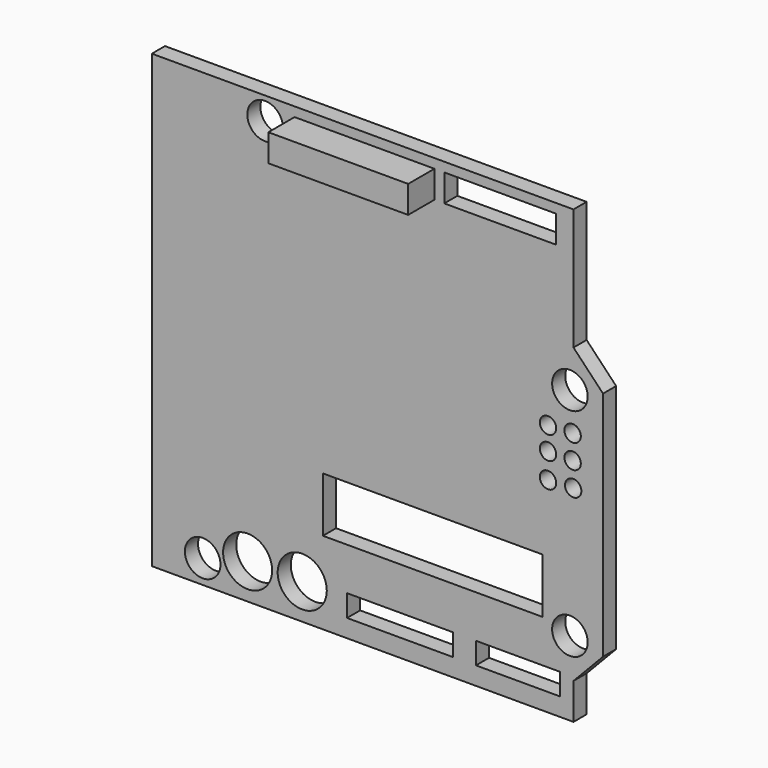
from build123d import *

# Parameters (mm, degrees)
F1_R     = 2.7559
F1_R_2   = 3.7973
F1_R_3   = 3.800833
F1_W     = 16.406082
F1_H     = 3.382698
F1_W_2   = 34.019268
F1_H_2   = 8.504816
F1_W_3   = 13.023385
F1_H_3   = 3.355218
F1_R_4   = 2.753314
F1_R_5   = 1.27
F1_W_4   = 21.649266
F1_H_4   = 4.228369
F1_R_6   = 2.753317
F1_W_5   = 17.329967
F2_DEPTH = 2.54
F0_W     = 21.649266
F0_H     = 4.228369
F3_DEPTH = 7.62


with BuildPart() as f2:
    # F1 (on face) → F2 (new body)
    with BuildSketch(Plane.XZ):
        Polygon((-4.572, 23.560494), (-4.572, 42.383402), (-69.85, 42.383402), (-69.85, -27.466598), (-4.572, -27.466598), (-4.572, -21.878072), (0, -17.088747), (0, 18.767847), align=None)
        with Locations((-61.978057, -23.806182)):
            Circle(F1_R, mode=Mode.SUBTRACT)
        with Locations((-55.024266, -21.993658)):
            Circle(F1_R_2, mode=Mode.SUBTRACT)
        with Locations((-46.567522, -21.993658)):
            Circle(F1_R_3, mode=Mode.SUBTRACT)
        with Locations((-31.42995, -23.008466)):
            Rectangle(F1_W, F1_H, mode=Mode.SUBTRACT)
        with Locations((-26.35518, -10.46098)):
            Rectangle(F1_W_2, F1_H_2, mode=Mode.SUBTRACT)
        with Locations((-13.163384, -22.994726)):
            Rectangle(F1_W_3, F1_H_3, mode=Mode.SUBTRACT)
        with Locations((-5.129477, -15.904803)):
            Circle(F1_R_4, mode=Mode.SUBTRACT)
        with Locations((-8.520022, 4.222247)):
            Circle(F1_R_5, mode=Mode.SUBTRACT)
        with Locations((-4.622072, 4.391382)):
            Circle(F1_R_5, mode=Mode.SUBTRACT)
        with Locations((-52.318107, 38.894892)):
            Circle(F1_R, mode=Mode.SUBTRACT)
        with Locations((-36.926835, 38.810327)):
            Rectangle(F1_W_4, F1_H_4, mode=Mode.SUBTRACT)
        with Locations((-8.520022, 8.11235)):
            Circle(F1_R_5, mode=Mode.SUBTRACT)
        with Locations((-4.708127, 8.11235)):
            Circle(F1_R_5, mode=Mode.SUBTRACT)
        with Locations((-8.520022, 11.676179)):
            Circle(F1_R_5, mode=Mode.SUBTRACT)
        with Locations((-4.708127, 11.833317)):
            Circle(F1_R_5, mode=Mode.SUBTRACT)
        with Locations((-5.129477, 17.583903)):
            Circle(F1_R_6, mode=Mode.SUBTRACT)
        with Locations((-15.915005, 38.810327)):
            Rectangle(F1_W_5, F1_H_4, mode=Mode.SUBTRACT)
    extrude(amount=F2_DEPTH)

    # F0 (on Front) → F3 (join)
    with BuildSketch(Plane.XZ):
        with Locations((-36.926835, 38.810327)):
            Rectangle(F0_W, F0_H)
    extrude(amount=F3_DEPTH)


solid = f2.part
